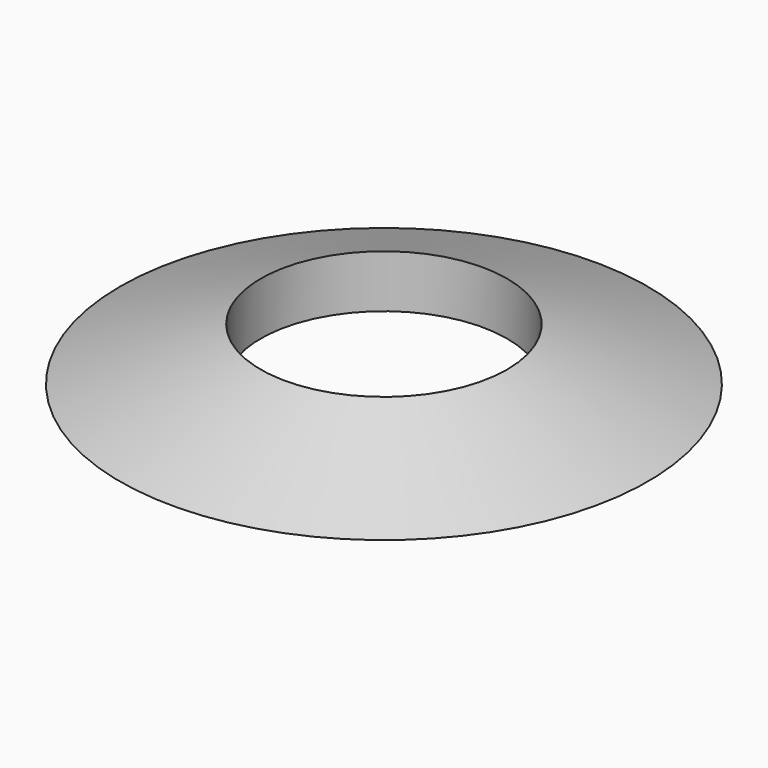
from build123d import *

# Parameters (mm, degrees)
F0_R     = 95.25
F0_R_2   = 44.45
F1_DEPTH = 19.05


with BuildPart() as f1:
    # F0 (on Top) → F1 (new body)
    with BuildSketch(Plane.XY):
        Circle(F0_R)
        Circle(F0_R_2, mode=Mode.SUBTRACT)
    extrude(amount=F1_DEPTH)

    # F2 (on Front) → F3 (revolve, cut)
    with BuildSketch(Plane.XZ):
        Polygon((-95.25, 0), (-44.413712, 19.137811), (-52.87413, 28.857555), (-107.207969, 21.624837), align=None)
    revolve(axis=Axis((0, 0, 0), (0, 0, 1)), mode=Mode.SUBTRACT)


solid = f1.part
